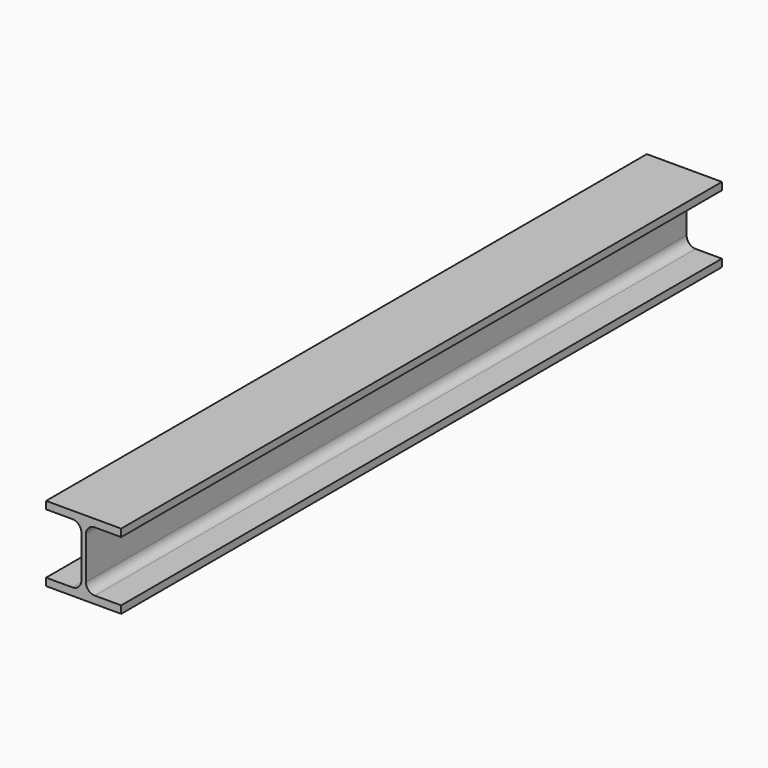
from build123d import *

# Parameters (mm, degrees)
F1_DEPTH = 1000


with BuildPart() as f1:
    # F0 (on Front) → F1 (new body)
    with BuildSketch(Plane.XZ):
        with BuildLine():
            Line((50, -50), (50, -40))
            Line((50, -40), (15, -40))
            ThreePointArc((15, -40), (6.514719, -36.485281), (3, -28))
            Line((3, -28), (3, 0))
            Line((3, 0), (3, 28))
            ThreePointArc((3, 28), (6.514719, 36.485281), (15, 40))
            Line((15, 40), (50, 40))
            Line((50, 40), (50, 50))
            Line((50, 50), (0, 50))
            Line((0, 50), (-50, 50))
            Line((-50, 50), (-50, 40))
            Line((-50, 40), (-15, 40))
            ThreePointArc((-15, 40), (-6.514719, 36.485281), (-3, 28))
            Line((-3, 28), (-3, 0))
            Line((-3, 0), (-3, -28))
            ThreePointArc((-3, -28), (-6.514719, -36.485281), (-15, -40))
            Line((-15, -40), (-50, -40))
            Line((-50, -40), (-50, -50))
            Line((-50, -50), (0, -50))
            Line((0, -50), (50, -50))
        make_face()
    extrude(amount=-F1_DEPTH)


solid = f1.part
